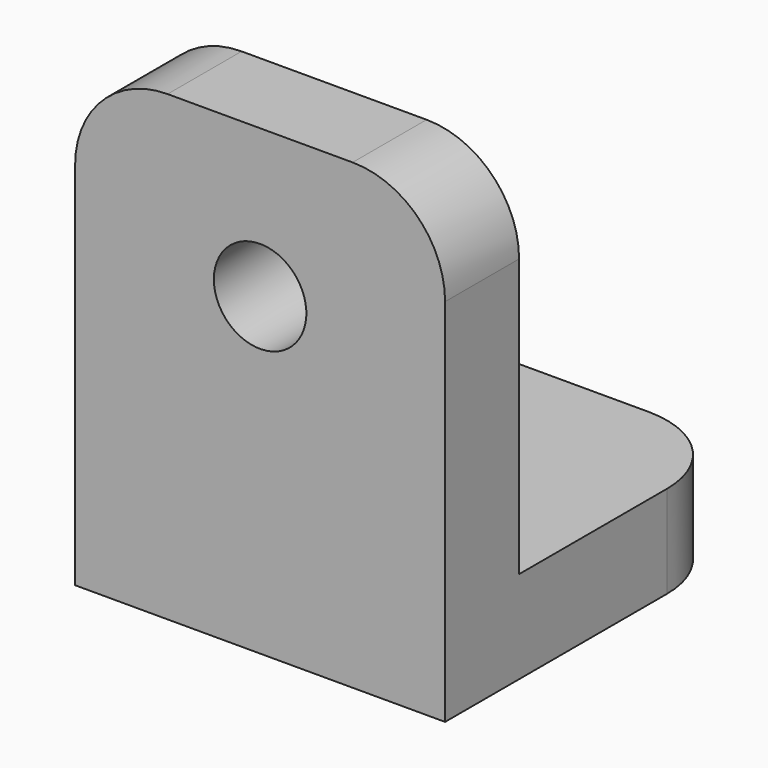
from build123d import *

# Parameters (mm, degrees)
F0_W     = 20
F0_H     = 20
F0_R     = 2.5
F1_DEPTH = 5
F2_W     = 20
F2_H     = 5
F3_DEPTH = 20
F4_R     = 2.5
F5_DEPTH = 5.001
F6_R     = 5


with BuildPart() as f1:
    # F0 (on Top) → F1 (new body)
    with BuildSketch(Plane.XY):
        Rectangle(F0_W, F0_H)
        with Locations((0, 2)):
            Circle(F0_R, mode=Mode.SUBTRACT)
    extrude(amount=F1_DEPTH)

    # F2 (on face) → F3 (join)
    with BuildSketch(Plane.XY.offset(5)):
        with Locations((0, -7.5)):
            Rectangle(F2_W, F2_H)
    extrude(amount=F3_DEPTH)

    # F4 (on face) → F5 (cut, through all)
    with BuildSketch(Plane(origin=(0, -5, 0), x_dir=(-1, 0, 0), z_dir=(0, 1, 0))):
        with Locations((0, 17)):
            Circle(F4_R)
    extrude(amount=-F5_DEPTH, mode=Mode.SUBTRACT)

    # F6
    f6_edges = [f1.edges().sort_by_distance(p)[0] for p in [
        (-10, -7.5, 25),
        (10, -7.5, 25),
        (10, 10, 2.5),
        (-10, 10, 2.5),
    ]]
    fillet(f6_edges, radius=F6_R)


solid = f1.part
